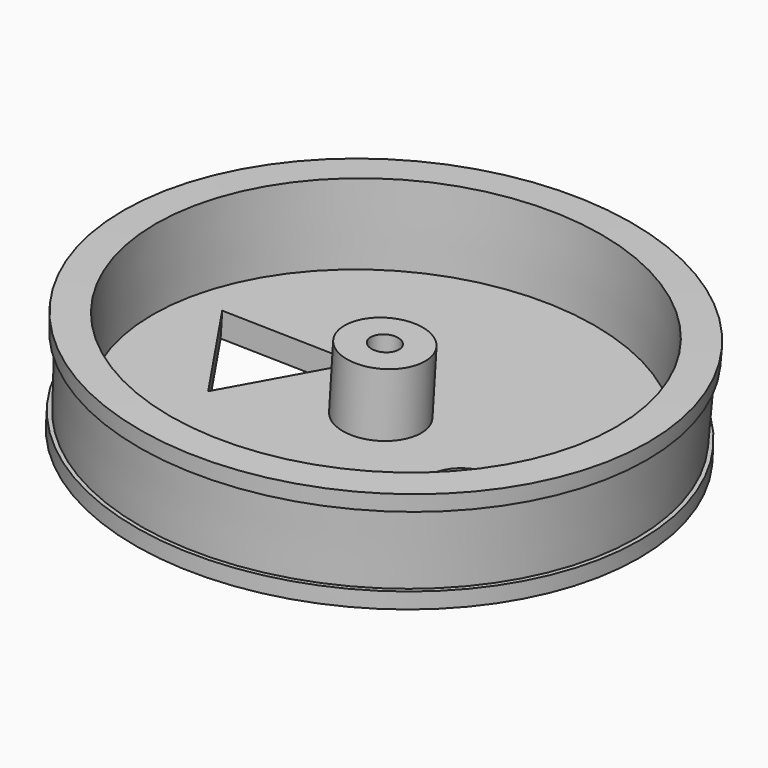
from build123d import *

# Parameters (mm, degrees)
F2_R     = 5
F3_DEPTH = 8
F4_R     = 1.75
F5_DEPTH = 40
F6_R     = 4.3178383785
F7_DEPTH = 25


with BuildPart() as f1:
    # F0 (on Front) → F1 (revolve)
    with BuildSketch(Plane.XZ):
        Polygon((0.1968459624, 3.0994775003), (0, 0), (32.1352573357, -2.0408909744), (32.2620207502, -0.0449122579), (31.7640419464, 0), (32.5724625894, 8.9636184693), (33.0704413932, 8.9187062114), (33.250090425, 10.9106214268), (29.2662599942, 11.2699194904), (28.3680148353, 1.3103434133), align=None)
    revolve(axis=Axis((0.0987262279, 0, 1.554513582), (0.0633817073, 0, 0.9979893583)))

    # F2 (on face) → F3 (join)
    with BuildSketch(Plane(origin=(0.1968459624, 0, 3.0994775003), x_dir=(0.9979893583, 0, -0.0633817073), z_dir=(0.0633817073, 0, 0.9979893583))):
        Circle(F2_R)
    extrude(amount=F3_DEPTH)

    # F4 (on face) → F5 (cut)
    with BuildSketch(Plane(origin=(0.7038996206, 0, 11.0833923663), x_dir=(0.9979893583, 0, -0.0633817073), z_dir=(0.0633817073, 0, 0.9979893583))):
        Circle(F4_R)
    extrude(amount=-F5_DEPTH, mode=Mode.SUBTRACT)

    # F6 (on face) → F7 (cut)
    with BuildSketch(Plane(origin=(0.1968459624, 0, 3.0994775003), x_dir=(0.9979893583, 0, -0.0633817073), z_dir=(0.0633817073, 0, 0.9979893583))):
        Polygon((-23.8293290344, 5.2469611813), (-15.0192163679, -7.9159412247), (-8.0248648301, 6.2952913577), align=None)
        with Locations((15.0223076344, -5.7818233036)):
            Circle(F6_R)
    extrude(amount=-F7_DEPTH, mode=Mode.SUBTRACT)


solid = f1.part
